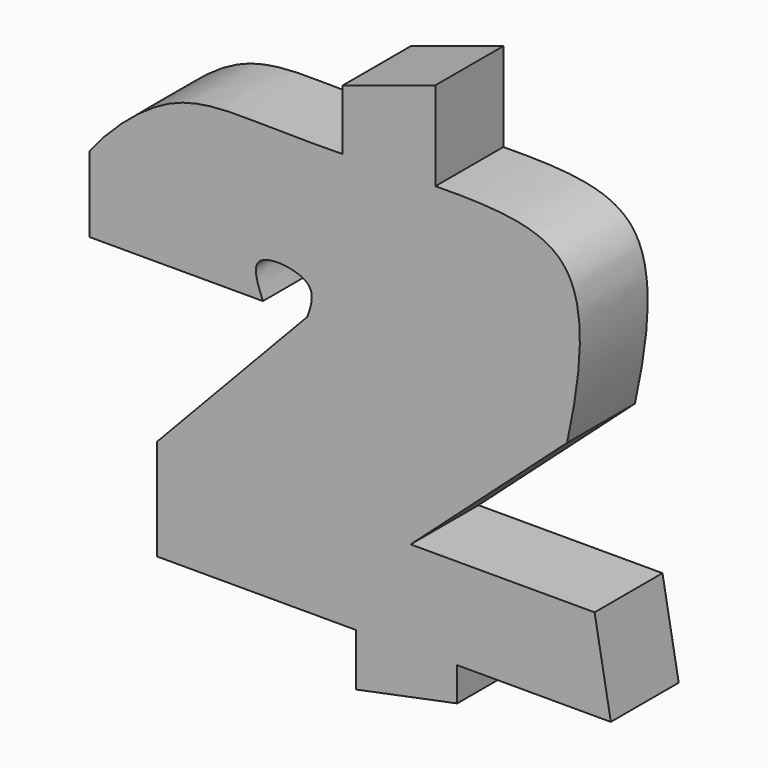
from build123d import *

# Parameters (mm, degrees)
F1_DEPTH = 25


with BuildPart() as f1:
    # F0 (on Front) → F1 (new body)
    with BuildSketch(Plane.XZ):
        with BuildLine():
            Line((-74.6366232634, 0), (-74.6366232634, -29.8367273062))
            Line((-74.6366232634, -29.8367273062), (-16.055142507, -29.8367273062))
            Line((-16.055142507, -29.8367273062), (-16.055142507, -45.2659733504))
            Line((-16.055142507, -45.2659733504), (13.7345721046, -39.1864619064))
            Line((13.7345721046, -39.1864619064), (13.7289935585, -29.2659699917))
            Line((13.7289935585, -29.2659699917), (58.9737510074, -29.2659699917))
            Line((58.9737510074, -29.2659699917), (54.1899427772, -2.403032966))
            Line((54.1899427772, -2.403032966), (0, -2.403032966))
            Line((0, -2.403032966), (46.0882820189, 38.9215648174))
            add(Edge.make_bspline(
                [(46.0882820189, 38.9215648174), (50.2481446477, 58.0354177354), (53.4704514837, 90.1545526644), (28.347812869, 93.151001111), (7.3035084642, 92.849843204)],
                knots=[0, 0, 0, 0, 0.5132843184, 1, 1, 1, 1], degree=3))
            Line((7.3035084642, 92.849843204), (7.3035084642, 119.0234960881))
            Line((7.3035084642, 119.0234960881), (-20.0124010444, 110.0969502155))
            Line((-20.0124010444, 110.0969502155), (-20.0124010444, 92.2883078456))
            add(Edge.make_bspline(
                [(-94.6554914117, 68.7547847629), (-89.8937305898, 74.9816786252), (-71.3242782324, 93.7986977702), (-43.9410715308, 91.9445843106), (-20.6469021907, 92.2730502084), (-20.0124010444, 92.2883078456)],
                knots=[0, 0, 0, 0, 0.3556252037, 0.7112551809, 1, 1, 1, 1], degree=3))
            Line((-94.6554914117, 68.7547847629), (-94.6554914117, 46.5293340385))
            Line((-94.6554914117, 46.5293340385), (-43.5143597424, 46.5293340385))
            add(Edge.make_bspline(
                [(-30.4154206104, 46.7180907726), (-29.2907957738, 50.0021383604), (-26.7383792795, 57.45551922), (-48.6359964712, 59.5995631591), (-45.1285673693, 50.6487327091), (-43.5143597424, 46.5293340385)],
                knots=[0, 0, 0, 0, 0.2983258219, 0.6770717876, 1, 1, 1, 1], degree=3))
            Line((-30.4154206104, 46.7180907726), (-74.6366232634, 0))
        make_face()
    extrude(amount=F1_DEPTH)


solid = f1.part
